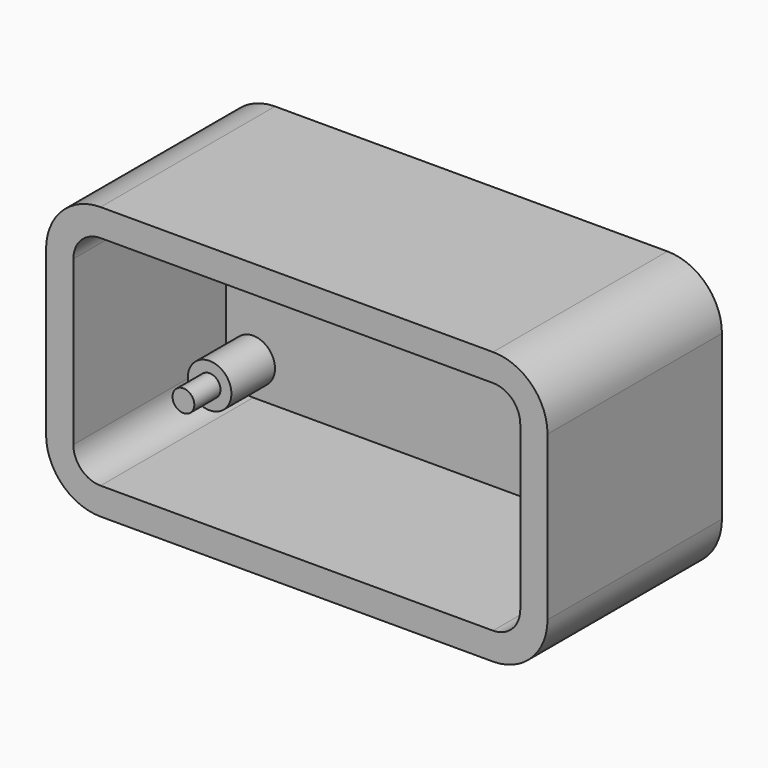
from build123d import *

# Parameters (mm, degrees)
F0_W     = 58.42
F0_H     = 31.75
F2_DEPTH = 25.4
F3_R     = 6.35
F4_T     = -3.175
F5_R     = 2.54
F6_DEPTH = 6.35
F7_R     = 1.27
F8_DEPTH = 3.81


with BuildPart() as f2:
    # F0 (on Front) → F2 (new body)
    with BuildSketch(Plane.XZ):
        Rectangle(F0_W, F0_H)
    extrude(amount=F2_DEPTH)

    # F3
    f3_edges = [f2.edges().sort_by_distance(p)[0] for p in [
        (29.21, -12.7, 15.875),
        (29.21, -12.7, -15.875),
        (-29.21, -12.7, 15.875),
        (-29.21, -12.7, -15.875),
    ]]
    fillet(f3_edges, radius=F3_R)

    # F4
    f4_openings = [f2.faces().sort_by_distance(p)[0] for p in [
        (0, -25.4, 0),
    ]]
    offset(amount=F4_T, openings=f4_openings)

    # F5 (on face) → F6 (join)
    with BuildSketch(Plane.XZ.offset(3.175)):
        with Locations((-22.86, 8.89)):
            Circle(F5_R)
        with Locations((22.86, 8.89)):
            Circle(F5_R)
        with Locations((-22.86, -8.89)):
            Circle(F5_R)
        with Locations((22.86, -8.89)):
            Circle(F5_R)
    extrude(amount=F6_DEPTH)

    # F7 (on face) → F8 (join)
    with BuildSketch(Plane.XZ.offset(9.525)):
        with Locations((-22.86, 8.89)):
            Circle(F7_R)
        with Locations((-22.86, -8.89)):
            Circle(F7_R)
        with Locations((22.86, -8.89)):
            Circle(F7_R)
        with Locations((22.86, 8.89)):
            Circle(F7_R)
    extrude(amount=F8_DEPTH)


solid = f2.part
